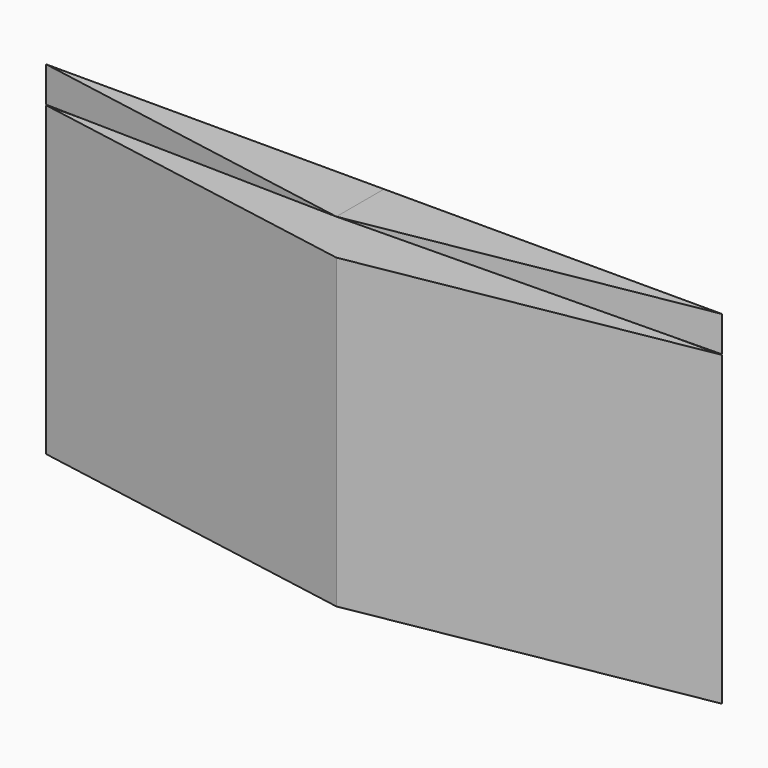
from build123d import *

# Parameters (mm, degrees)
F2_DEPTH = 25.4
F3_DEPTH = 25.4


with BuildPart() as f2:
    # F0 (on Top) → F2 (new body)
    with BuildSketch(Plane.XY):
        Polygon((-25.014117, 4.410664), (0, 0), (25.014117, 4.410664), align=None)
    extrude(amount=-F2_DEPTH)

    # F1 (on Front) → F3 (cut)
    with BuildSketch(Plane.XZ):
        Polygon((25.4, -2.669648), (0, 0), (-25.4, -2.669648), align=None)
    extrude(amount=-F3_DEPTH, mode=Mode.SUBTRACT)


solid = f2.part
